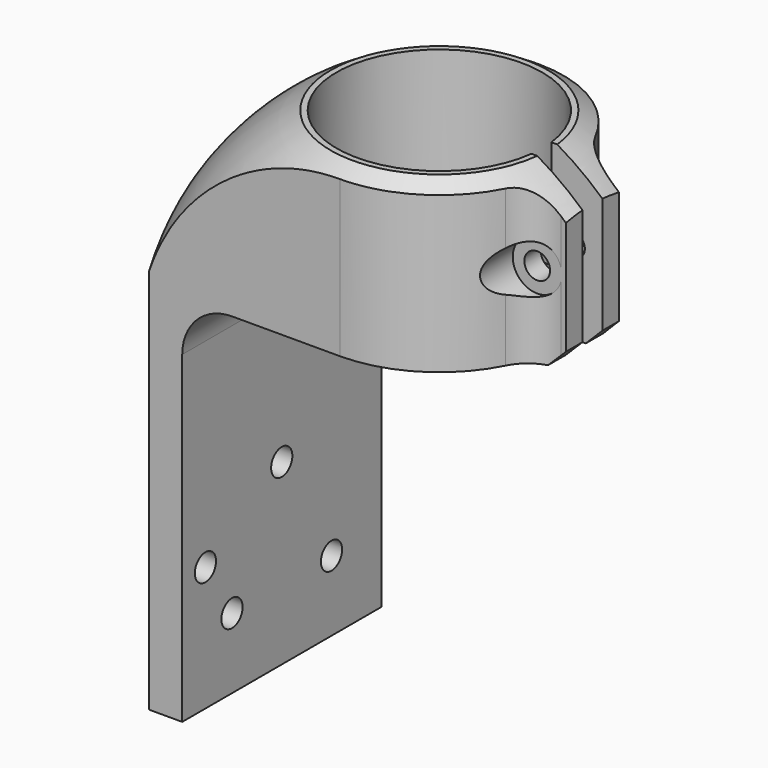
from build123d import *

# Parameters (mm, degrees)
SKETCH152_W             = 30
SKETCH152_H             = 45
PAD076_DEPTH            = 4
PAD077_DEPTH            = 20
SKETCH159_R             = 1.6
POCKET059_DEPTH         = 5
FILLET_R                = 6
CHAMFER_SIZE            = 2
FILLET001_R             = 5
SKETCH_R                = 1.35
POCKET_DEPTH            = 19.001
POCKET_DEPTH_BACK       = -11.001
SKETCH165_R             = 2.95
POCKET060_DEPTH         = 5
SKETCH166_R             = 1.55
POCKET061_DEPTH         = 2.5
BODY061_ROLL_ANGLE      = -90
BODY061_PLACEMENT_ANGLE = -90


with BuildPart() as part:
    # Sketch152 → Pad076 (new body)
    with BuildSketch(Plane.XY):
        with Locations((15, 22.5)):
            Rectangle(SKETCH152_W, SKETCH152_H)
    extrude(amount=PAD076_DEPTH)

    # Sketch153 (on Face1 of Pad076) → Pad077 (join)
    with BuildSketch(Plane.XZ):
        with BuildLine():
            ThreePointArc((30, 22.999996), (26.937338, 32.08295), (19, 37.456832))
            Line((19, 37.456832), (19, 41.456832))
            Line((19, 41.456832), (16.5, 41.456832))
            Line((16.5, 35.30894), (16.5, 41.456832))
            ThreePointArc((13.5, 35.30894), (15, 10.6), (16.5, 35.30894))
            Line((13.5, 41.456832), (13.5, 35.30894))
            Line((13.5, 41.456832), (11, 41.456832))
            Line((11, 41.456832), (11, 37.456832))
            ThreePointArc((11, 37.456832), (3.062664, 32.082951), (0, 23))
            Line((0, 0), (0, 23))
            Line((0, 0), (30, 0))
            Line((30, 22.999996), (30, 0))
        make_face()
    extrude(amount=PAD077_DEPTH)

    # Sketch159 → Pocket059 (cut)
    with BuildSketch(Plane.XY.offset(4)):
        with Locations((7.5, 36.5)):
            Circle(SKETCH159_R)
        with Locations((15, 23.5)):
            Circle(SKETCH159_R)
        with Locations((22.5, 36.5)):
            Circle(SKETCH159_R)
        with Locations((26.5, 30)):
            Circle(SKETCH159_R)
    extrude(amount=-POCKET059_DEPTH, mode=Mode.SUBTRACT)

    # Sketch164 (on DatumPlane) → Groove (revolve, cut)
    with BuildSketch(Plane(origin=(15, 0, 0), x_dir=(0, -1, 0), z_dir=(-1, 0, 0))):
        with BuildLine():
            Line((42.60314, 23.220009), (24.100682, 23.220009))
            ThreePointArc((24.100682, 23.220009), (15.81151, 41.734328), (-2.093555, 51.268426))
            Line((-2.093555, 59.264427), (-2.093555, 51.268426))
            Line((-2.093555, 59.264427), (35.073817, 59.264427))
            Line((42.60314, 23.220009), (35.073817, 59.264427))
        make_face()
    revolve(axis=Axis((15, 0, 22.999996), (0, -1, 0)), mode=Mode.SUBTRACT)

    # Fillet
    fillet_edges = [part.edges().sort_by_distance(p)[0] for p in [
        (15, 0, 4),
    ]]
    fillet(fillet_edges, radius=FILLET_R)

    # Chamfer
    chamfer_edges = [part.edges().sort_by_distance(p)[0] for p in [
        (12.25, 0, 41.456832),
        (17.75, 0, 41.456832),
    ]]
    chamfer(chamfer_edges, length=CHAMFER_SIZE)

    # Fillet001
    fillet001_edges = [part.edges().sort_by_distance(p)[0] for p in [
        (11, -9.399365, 37.456832),
        (19, -9.399365, 37.456832),
    ]]
    fillet(fillet001_edges, radius=FILLET001_R)

    # Sketch (on Face23 of Fillet001) → Pocket (cut, two sides)
    with BuildSketch(Plane.YZ.offset(19)) as pocket_sk:
        with Locations((-10, 38)):
            Circle(SKETCH_R)
    extrude(amount=-POCKET_DEPTH, mode=Mode.SUBTRACT)
    extrude(pocket_sk.sketch, amount=-POCKET_DEPTH_BACK, mode=Mode.SUBTRACT)

    # Sketch165 (on Face25 of Pocket) → Pocket060 (cut)
    with BuildSketch(Plane.YZ.offset(19)):
        with Locations((-10, 38)):
            Circle(SKETCH165_R)
    extrude(amount=POCKET060_DEPTH, mode=Mode.SUBTRACT)

    # Sketch166 (on Face31 of Pocket060) → Pocket061 (cut)
    with BuildSketch(Plane.YZ.offset(19)):
        with Locations((-10, 38)):
            Circle(SKETCH166_R)
    extrude(amount=-POCKET061_DEPTH, mode=Mode.SUBTRACT)


with BuildPart() as part_1:
    # Body061 roll: moved
    add(part.part.rotate(Axis((0, 0, 0), (1, 0, 0)), BODY061_ROLL_ANGLE))


with BuildPart() as part_2:
    # Body061 placement: moved
    add(part_1.part.rotate(Axis((0, 0, 0), (0, 0, 1)), BODY061_PLACEMENT_ANGLE))


solid = part_2.part
